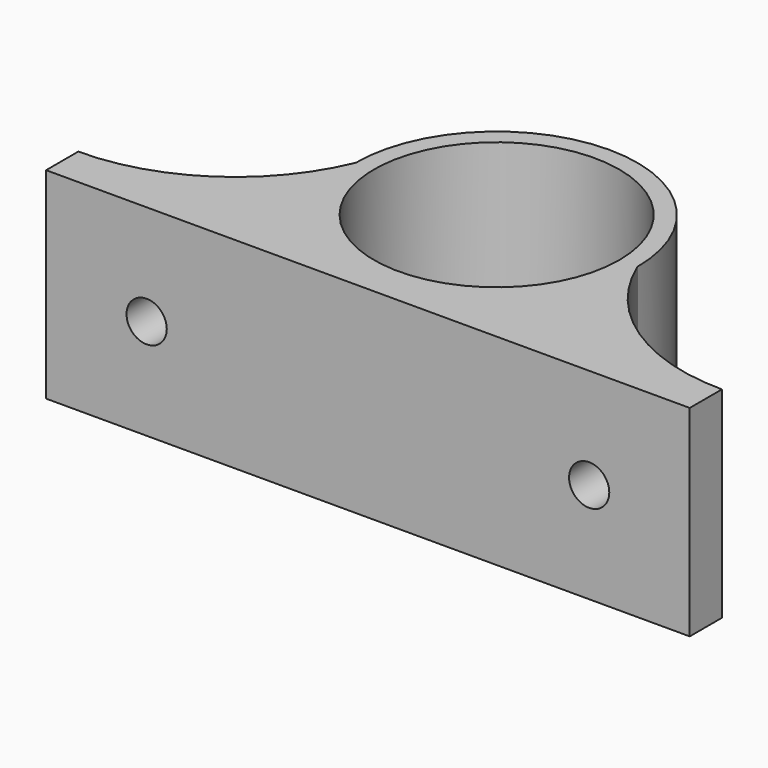
from build123d import *

# Parameters (mm, degrees)
F0_R     = 15.25
F1_DEPTH = 25
F2_R     = 2.5
F3_DEPTH = 25


with BuildPart() as f1:
    # F0 (on Top) → F1 (new body)
    with BuildSketch(Plane.XY):
        with BuildLine():
            ThreePointArc((40, -15), (26.479183, -10.906226), (17.5, 0))
            ThreePointArc((17.5, 0), (0, 17.5), (-17.5, 0))
            ThreePointArc((-17.5, 0), (-26.479183, -10.906226), (-40, -15))
            Line((-40, -15), (-40, -20))
            Line((-40, -20), (40, -20))
            Line((40, -20), (40, -15))
        make_face()
        Circle(F0_R, mode=Mode.SUBTRACT)
    extrude(amount=F1_DEPTH)

    # F2 (on Front) → F3 (cut)
    with BuildSketch(Plane.XZ):
        with Locations((27.5, 12.5)):
            Circle(F2_R)
        with Locations((-27.5, 12.5)):
            Circle(F2_R)
    extrude(amount=F3_DEPTH, mode=Mode.SUBTRACT)


solid = f1.part
